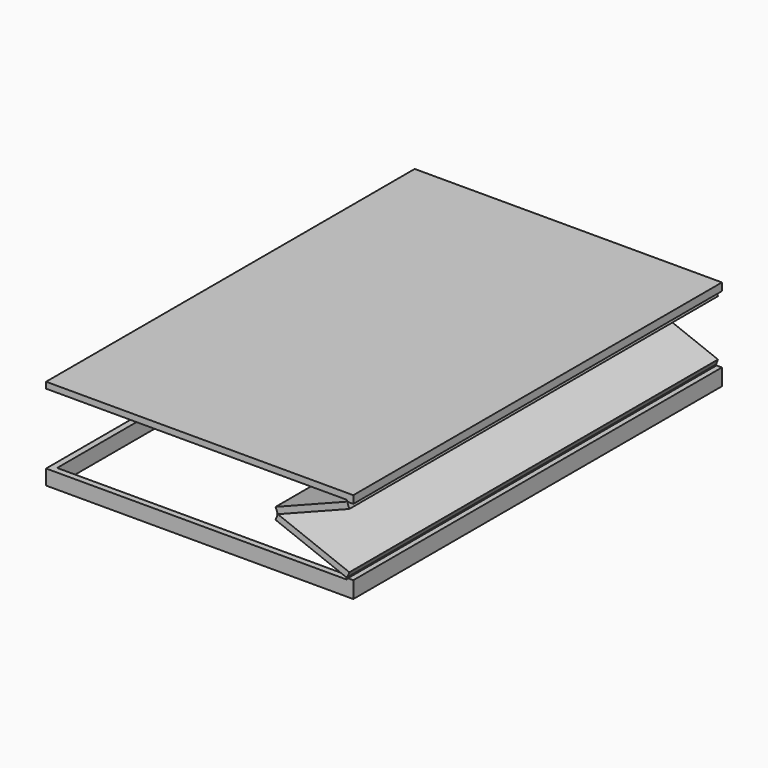
from build123d import *

# Parameters (mm, degrees)
F1_DEPTH = 1500
F2_W     = 1920
F2_H     = 2920
F3_DEPTH = 40
F5_DEPTH = 98
F9_DEPTH = 400


with BuildPart() as f1:
    # F0 (on Front) → F1 (new body, symmetric)
    with BuildSketch(Plane.XZ):
        with BuildLine():
            Line((0, 447.3692746821), (0, 442.3692746821))
            ThreePointArc((0, 442.3692746821), (3.5355339059, 440.904808588), (5, 437.3692746821))
            Line((5, 437.3692746821), (40, 437.3692746821))
            Line((40, 437.3692746821), (40, 447.3692746821))
            Line((40, 447.3692746821), (0, 447.3692746821))
        make_face()
    extrude(amount=F1_DEPTH, both=True)

    # F2 (on face) → F3 (join)
    with BuildSketch(Plane.XY.offset(447.3692746821)):
        Polygon((0, 1460), (0, 1500), (-1960, 1500), (-1960, -1500), (0, -1500), (0, -1460), (-1920, -1460), (-1920, 1460), align=None)
        Polygon((40, -1500), (40, 1500), (0, 1500), (0, 1460), (0, -1460), (0, -1500), align=None)
        with Locations((-960, 0)):
            Rectangle(F2_W, F2_H)
    extrude(amount=F3_DEPTH)



with BuildPart() as f1b:
    # F0 (on Front) → F1, piece 2 (new body, symmetric)
    with BuildSketch(Plane.XZ):
        with BuildLine():
            Line((-465.9295136291, 255.9589984314), (-453.2307942915, 223.3439324773))
            ThreePointArc((-453.2307942915, 223.3439324773), (-449.4048367078, 223.2620208926), (-446.7573963927, 220.4987401035))
            Line((-446.7573963927, 220.4987401035), (14.5128221001, 400.0949135917))
            Line((14.5128221001, 400.0949135917), (1.8141027625, 432.7099795458))
            ThreePointArc((1.8141027625, 432.7099795458), (-2.0118548213, 432.7918911305), (-4.6592951363, 435.5551719196))
            Line((-4.6592951363, 435.5551719196), (-465.9295136291, 255.9589984314))
        make_face()
        with BuildLine():
            Line((0, 437.3692746821), (1.8141027625, 432.7099795458))
            ThreePointArc((1.8141027625, 432.7099795458), (4.127378939, 434.5470870388), (5, 437.3692746821))
            Line((5, 437.3692746821), (0, 437.3692746821))
        make_face()
        with BuildLine():
            Line((0, 437.3692746821), (-4.6592951363, 435.5551719196))
            ThreePointArc((-4.6592951363, 435.5551719196), (-2.0118548213, 432.7918911305), (1.8141027625, 432.7099795458))
            Line((1.8141027625, 432.7099795458), (0, 437.3692746821))
        make_face()
        with BuildLine():
            ThreePointArc((0, 442.3692746821), (-4.127378939, 440.1914623253), (-4.6592951363, 435.5551719196))
            Line((-4.6592951363, 435.5551719196), (0, 437.3692746821))
            Line((0, 437.3692746821), (0, 442.3692746821))
        make_face()
    extrude(amount=F1_DEPTH, both=True)


with BuildPart() as f1c:
    # F0 (on Front) → F1, piece 3 (new body, symmetric)
    with BuildSketch(Plane.XZ):
        with BuildLine():
            Line((-465.9295136291, 181.4102762507), (-4.6592951363, 1.8141027625))
            ThreePointArc((-4.6592951363, 1.8141027625), (-2.0118548213, 4.5773835516), (1.8141027625, 4.6592951363))
            Line((1.8141027625, 4.6592951363), (14.5128221001, 37.2743610903))
            Line((14.5128221001, 37.2743610903), (-446.7573963927, 216.8705345785))
            ThreePointArc((-446.7573963927, 216.8705345785), (-449.4048367078, 214.1072537895), (-453.2307942915, 214.0253422047))
            Line((-453.2307942915, 214.0253422047), (-465.9295136291, 181.4102762507))
        make_face()
        with BuildLine():
            Line((-451.416691529, 218.684637341), (-453.2307942915, 214.0253422047))
            ThreePointArc((-453.2307942915, 214.0253422047), (-449.4048367078, 214.1072537895), (-446.7573963927, 216.8705345785))
            Line((-446.7573963927, 216.8705345785), (-451.416691529, 218.684637341))
        make_face()
        with BuildLine():
            Line((-451.416691529, 218.684637341), (-446.7573963927, 216.8705345785))
            ThreePointArc((-446.7573963927, 216.8705345785), (-446.5026058724, 217.761727725), (-446.416691529, 218.684637341))
            ThreePointArc((-446.416691529, 218.684637341), (-446.5026058724, 219.607546957), (-446.7573963927, 220.4987401035))
            Line((-446.7573963927, 220.4987401035), (-451.416691529, 218.684637341))
        make_face()
        with BuildLine():
            ThreePointArc((-453.2307942915, 223.3439324773), (-456.416691529, 218.684637341), (-453.2307942915, 214.0253422047))
            Line((-453.2307942915, 214.0253422047), (-451.416691529, 218.684637341))
            Line((-451.416691529, 218.684637341), (-453.2307942915, 223.3439324773))
        make_face()
    extrude(amount=F1_DEPTH, both=True)


with BuildPart() as f1d:
    # F0 (on Front) → F1, piece 4 (new body, symmetric)
    with BuildSketch(Plane.XZ):
        with BuildLine():
            Line((40, 0), (5, 0))
            ThreePointArc((5, 0), (3.5355339059, -3.5355339059), (0, -5))
            Line((0, -5), (0, -10))
            Line((0, -10), (40, -10))
            Line((40, -10), (40, 0))
        make_face()
        with BuildLine():
            Line((5, 0), (0, 0))
            Line((0, 0), (0, -5))
            ThreePointArc((0, -5), (3.5355339059, -3.5355339059), (5, 0))
        make_face()
        with BuildLine():
            Line((1.8141027625, 4.6592951363), (0, 0))
            Line((0, 0), (5, 0))
            ThreePointArc((5, 0), (4.127378939, 2.8221876433), (1.8141027625, 4.6592951363))
        make_face()
        with BuildLine():
            Line((0, -5), (0, 0))
            Line((0, 0), (-4.6592951363, 1.8141027625))
            ThreePointArc((-4.6592951363, 1.8141027625), (-4.127378939, -2.8221876433), (0, -5))
        make_face()
    extrude(amount=F1_DEPTH, both=True)

    # F4 (on face) → F5 (join)
    with BuildSketch(Plane(origin=(0, 0, -10), x_dir=(1, 0, 0), z_dir=(0, 0, -1))):
        Polygon((0, 1460), (0, 1500), (-1960, 1500), (-1960, -1500), (0, -1500), (0, -1460), (-1920, -1460), (-1920, 1460), align=None)
        Polygon((40, -1500), (40, 1500), (0, 1500), (0, 1460), (0, -1460), (0, -1500), align=None)
    extrude(amount=F5_DEPTH)

    # F8 (on plane+point) → F9, piece 4 (join, symmetric)
    with BuildSketch(Plane.YZ.offset(-960)):
        with BuildLine():
            Line((1500, 0), (1465, 0))
            ThreePointArc((1465, 0), (1463.5355339059, -3.5355339059), (1460, -5))
            Line((1460, -5), (1460, -10))
            Line((1460, -10), (1500, -10))
            Line((1500, -10), (1500, 0))
        make_face()
    extrude(amount=F9_DEPTH, both=True)


with BuildPart() as f9:
    # F8 (on plane+point) → F9 (new body, symmetric)
    with BuildSketch(Plane.YZ.offset(-960)):
        with BuildLine():
            Line((994.0704863709, 255.9589984314), (1006.7692057085, 223.3439324773))
            ThreePointArc((1006.7692057085, 223.3439324773), (1010.5951632922, 223.2620208926), (1013.2426036073, 220.4987401035))
            Line((1013.2426036073, 220.4987401035), (1474.5128221001, 400.0949135917))
            Line((1474.5128221001, 400.0949135917), (1461.8141027625, 432.7099795458))
            ThreePointArc((1461.8141027625, 432.7099795458), (1457.9881451787, 432.7918911305), (1455.3407048637, 435.5551719196))
            Line((1455.3407048637, 435.5551719196), (994.0704863709, 255.9589984314))
        make_face()
    extrude(amount=F9_DEPTH, both=True)


with BuildPart() as f9b:
    # F8 (on plane+point) → F9, piece 2 (new body, symmetric)
    with BuildSketch(Plane.YZ.offset(-960)):
        with BuildLine():
            Line((994.0704863709, 181.4102762507), (1455.3407048637, 1.8141027625))
            ThreePointArc((1455.3407048637, 1.8141027625), (1457.9881451787, 4.5773835516), (1461.8141027625, 4.6592951363))
            Line((1461.8141027625, 4.6592951363), (1474.5128221001, 37.2743610903))
            Line((1474.5128221001, 37.2743610903), (1013.2426036073, 216.8705345785))
            ThreePointArc((1013.2426036073, 216.8705345785), (1010.5951632922, 214.1072537895), (1006.7692057085, 214.0253422047))
            Line((1006.7692057085, 214.0253422047), (994.0704863709, 181.4102762507))
        make_face()
    extrude(amount=F9_DEPTH, both=True)


with BuildPart() as f1_1:
    add(f1.part)

    add(f9.part)  # F9#3 merges F9
    # F8 (on plane+point) → F9, piece 3 (join, symmetric)
    with BuildSketch(Plane.YZ.offset(-960)):
        with BuildLine():
            Line((1460, 447.3692746821), (1460, 442.3692746821))
            ThreePointArc((1460, 442.3692746821), (1463.5355339059, 440.904808588), (1465, 437.3692746821))
            Line((1465, 437.3692746821), (1500, 437.3692746821))
            Line((1500, 437.3692746821), (1500, 447.3692746821))
            Line((1500, 447.3692746821), (1460, 447.3692746821))
        make_face()
        with BuildLine():
            Line((1460, 442.3692746821), (1460, 437.3692746821))
            Line((1460, 437.3692746821), (1465, 437.3692746821))
            ThreePointArc((1465, 437.3692746821), (1463.5355339059, 440.904808588), (1460, 442.3692746821))
        make_face()
        with BuildLine():
            ThreePointArc((1460, 442.3692746821), (1455.872621061, 440.1914623253), (1455.3407048637, 435.5551719196))
            Line((1455.3407048637, 435.5551719196), (1460, 437.3692746821))
            Line((1460, 437.3692746821), (1460, 442.3692746821))
        make_face()
    extrude(amount=F9_DEPTH, both=True)


solid = Compound([f1b.part, f1c.part, f1d.part, f9b.part, f1_1.part])
